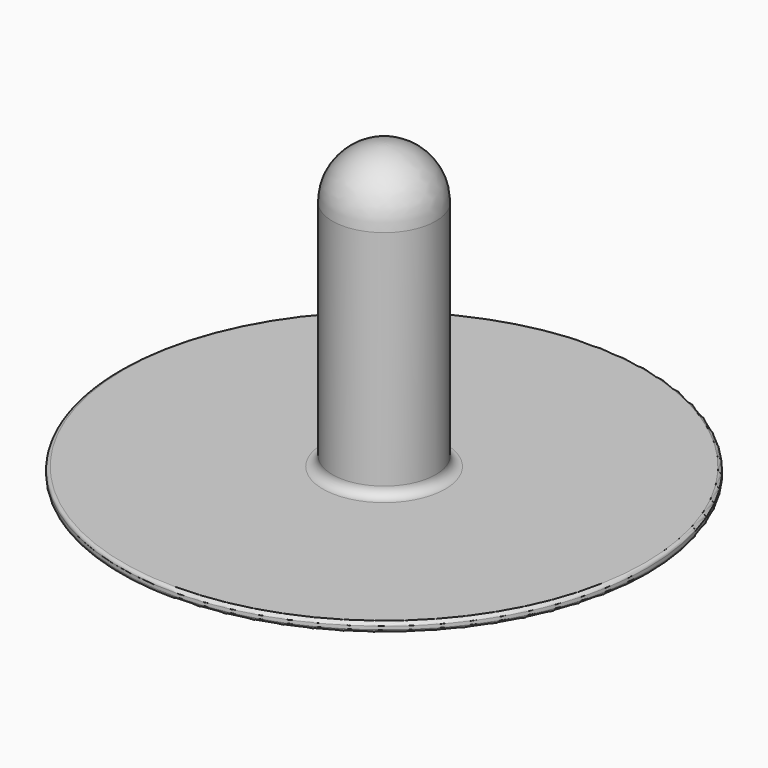
from build123d import *

# Parameters (mm, degrees)
FILLET004_R = 3
FILLET005_R = 1


with BuildPart() as part:
    # Sketch010 → Revolution (revolve)
    with BuildSketch(Plane.XZ):
        with BuildLine():
            Line((0, 79.2), (4.2, 79.2))
            Line((4.2, 79.2), (4.2, 29.2))
            Line((4.2, 29.2), (11.1, 29.2))
            Line((11.1, 29.2), (11.1, 14.2))
            Line((11.1, 14.2), (12.8, 14.2))
            Line((12.8, 14.2), (12.8, 7))
            Line((12.8, 7), (82.8, 7))
            Line((82.8, 7), (82.8, 10))
            Line((82.8, 10), (16.2, 10))
            Line((16.2, 10), (16.2, 83))
            ThreePointArc((16.2, 83), (11.45513, 94.45513), (0, 99.2))
            Line((0, 79.2), (0, 99.2))
        make_face()
    revolve(axis=Axis((0, 0, 0), (0, 0, 1)))

    # Fillet004
    fillet004_edges = [part.edges().sort_by_distance(p)[0] for p in [
        (-16.2, 0, 10),
    ]]
    fillet(fillet004_edges, radius=FILLET004_R)

    # Fillet005
    fillet005_edges = [part.edges().sort_by_distance(p)[0] for p in [
        (-82.8, 0, 10),
        (-82.8, 0, 7),
    ]]
    fillet(fillet005_edges, radius=FILLET005_R)


solid = part.part
